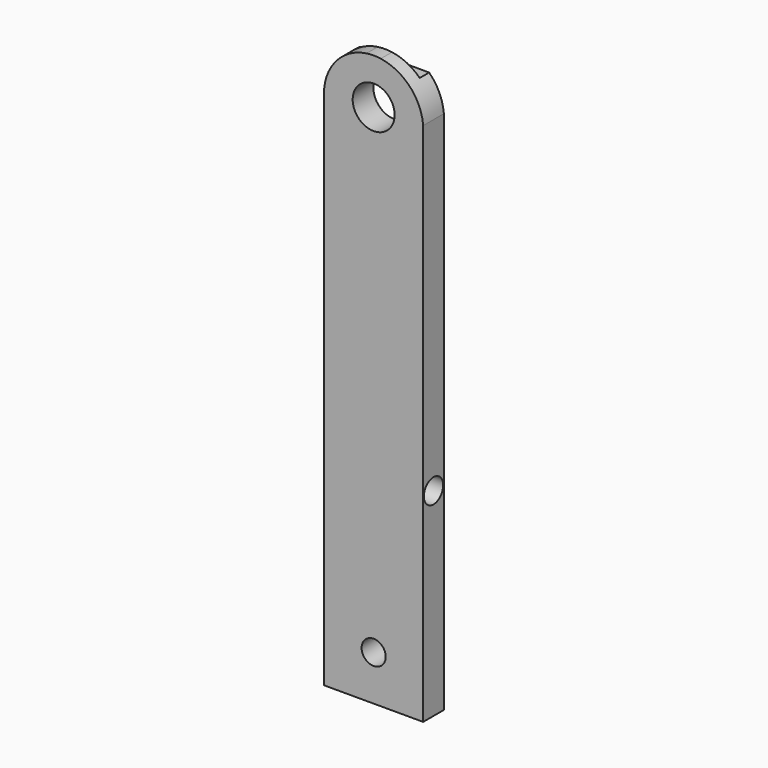
from build123d import *

# Parameters (mm, degrees)
F0_R     = 2.7
F1_DEPTH = 3.33
F3_W     = 16.370755
F3_H     = 3.245242
F4_DEPTH = 1.52
F5_R     = 1.55
F6_DEPTH = 3.331
F7_R     = 1.55
F8_DEPTH = 5


with BuildPart() as f1:
    # F0 (on Front) → F1 (new body)
    with BuildSketch(Plane.XZ):
        with BuildLine():
            Line((0, 67.59), (0, 0))
            Line((0, 0), (12.75, 0))
            Line((12.75, 0), (12.75, 67.59))
            ThreePointArc((12.75, 67.59), (11.037405, 71.448822), (7.293558, 73.4))
            Line((7.293558, 73.4), (5.456442, 73.4))
            ThreePointArc((5.456442, 73.4), (1.712595, 71.448822), (0, 67.59))
        make_face()
        with Locations((6.375, 67.59)):
            Circle(F0_R, mode=Mode.SUBTRACT)
        with BuildLine():
            ThreePointArc((7.293558, 73.4), (6.375, 73.466301), (5.456442, 73.4))
            Line((5.456442, 73.4), (7.293558, 73.4))
        make_face()
    extrude(amount=F1_DEPTH)

    # F3 (on face) → F4 (cut)
    with BuildSketch(Plane(origin=(0, 0, 0), x_dir=(-1, 0, 0), z_dir=(0, 1, 0))):
        with Locations((-6.359821, 73.257189)):
            Rectangle(F3_W, F3_H)
    extrude(amount=-F4_DEPTH, mode=Mode.SUBTRACT)

    # F5 (on face) → F6 (cut, through all)
    with BuildSketch(Plane.XZ.offset(3.33)):
        with Locations((6.375, 5.81)):
            Circle(F5_R)
    extrude(amount=-F6_DEPTH, mode=Mode.SUBTRACT)

    # F7 (on face) → F8 (cut)
    with BuildSketch(Plane.YZ.offset(12.75)):
        with Locations((-1.665, 25.523206)):
            Circle(F7_R)
    extrude(amount=-F8_DEPTH, mode=Mode.SUBTRACT)


solid = f1.part
